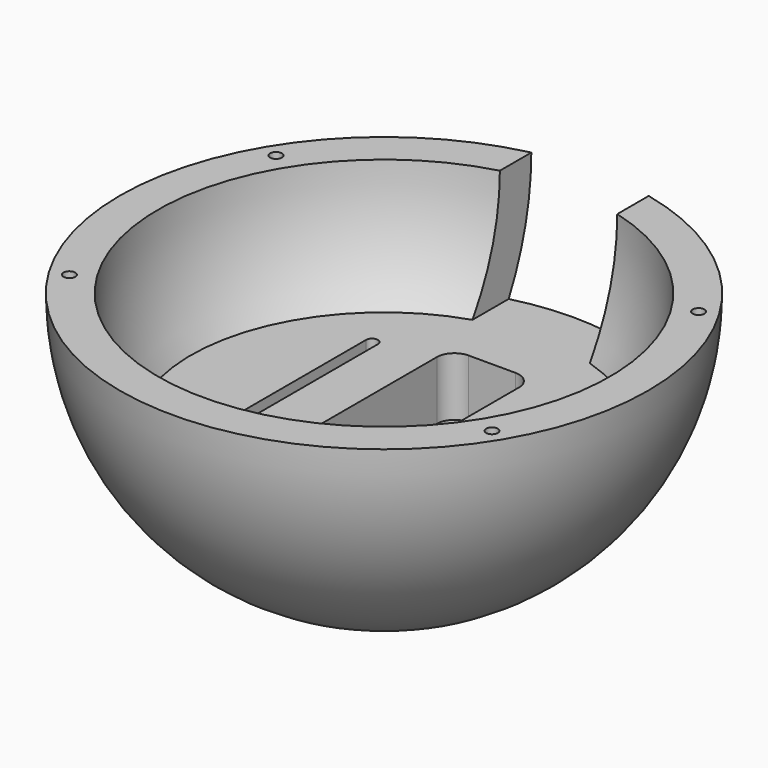
from build123d import *

# Parameters (mm, degrees)
F2_R     = 1.27
F3_DEPTH = 12.7
F5_DEPTH = 12.7
F6_W     = 25.4
F6_H     = 42.3964354956
F7_DEPTH = 25.4


with BuildPart() as f1:
    # F0 (on Front) → F1 (revolve)
    with BuildSketch(Plane.XZ):
        with BuildLine():
            Line((-48.895, 0), (-57.15, 0))
            ThreePointArc((-57.15, 0), (-40.4111525448, -40.4111525448), (0, -57.15))
            Line((0, -57.15), (0, -25.4))
            Line((0, -25.4), (-41.77991174, -25.4))
            ThreePointArc((-41.77991174, -25.4), (-47.0826391015, -13.188863493), (-48.895, 0))
        make_face()
    revolve(axis=Axis((0, 0, -41.275), (0, 0, -1)))

    # F2 (on face) → F3 (cut)
    with BuildSketch(Plane.XY):
        with Locations((45.72, 27.94)):
            Circle(F2_R)
        with Locations((45.72, -27.94)):
            Circle(F2_R)
        with Locations((-45.72, -27.94)):
            Circle(F2_R)
        with Locations((-45.72, 27.94)):
            Circle(F2_R)
    extrude(amount=-F3_DEPTH, mode=Mode.SUBTRACT)

    # F4 (on face) → F5 (cut)
    with BuildSketch(Plane.XY.offset(-25.4)):
        with BuildLine():
            Line((-20.88995587, -1.27), (-20.88995587, 0))
            Line((-20.88995587, 0), (-20.88995587, 1.27))
            ThreePointArc((-20.88995587, 1.27), (-21.7879814821, 0.8980256121), (-22.15995587, 0))
            ThreePointArc((-22.15995587, 0), (-21.7879814821, -0.8980256121), (-20.88995587, -1.27))
        make_face()
        with BuildLine():
            Line((-20.88995587, 1.27), (-20.88995587, 0))
            Line((-20.88995587, 0), (-20.88995587, -1.27))
            ThreePointArc((-20.88995587, -1.27), (-19.9919302579, -0.8980256121), (-19.61995587, 0))
            ThreePointArc((-19.61995587, 0), (-19.9919302579, 0.8980256121), (-20.88995587, 1.27))
        make_face()
        with BuildLine():
            ThreePointArc((-22.15995587, 0), (-21.7879814821, 0.8980256121), (-20.88995587, 1.27))
            ThreePointArc((-20.88995587, 1.27), (-19.9919302579, 0.8980256121), (-19.61995587, 0))
            Line((-19.61995587, 0), (-19.61995587, 22.86))
            ThreePointArc((-19.61995587, 22.86), (-20.88995587, 24.13), (-22.15995587, 22.86))
            Line((-22.15995587, 22.86), (-22.15995587, 0))
        make_face()
        with BuildLine():
            ThreePointArc((-19.61995587, 0), (-19.9919302579, -0.8980256121), (-20.88995587, -1.27))
            ThreePointArc((-20.88995587, -1.27), (-21.7879814821, -0.8980256121), (-22.15995587, 0))
            Line((-22.15995587, 0), (-22.15995587, -22.86))
            ThreePointArc((-22.15995587, -22.86), (-20.88995587, -24.13), (-19.61995587, -22.86))
            Line((-19.61995587, -22.86), (-19.61995587, 0))
        make_face()
        with BuildLine():
            Line((20.88995587, -1.27), (20.88995587, 0))
            Line((20.88995587, 0), (20.88995587, 1.27))
            ThreePointArc((20.88995587, 1.27), (19.9919302579, 0.8980256121), (19.61995587, 0))
            ThreePointArc((19.61995587, 0), (19.9919302579, -0.8980256121), (20.88995587, -1.27))
        make_face()
        with BuildLine():
            Line((20.88995587, 1.27), (20.88995587, 0))
            Line((20.88995587, 0), (20.88995587, -1.27))
            ThreePointArc((20.88995587, -1.27), (21.7879814821, -0.8980256121), (22.15995587, 0))
            ThreePointArc((22.15995587, 0), (21.7879814821, 0.8980256121), (20.88995587, 1.27))
        make_face()
        with BuildLine():
            ThreePointArc((19.61995587, 0), (19.9919302579, 0.8980256121), (20.88995587, 1.27))
            ThreePointArc((20.88995587, 1.27), (21.7879814821, 0.8980256121), (22.15995587, 0))
            Line((22.15995587, 0), (22.15995587, 22.86))
            ThreePointArc((22.15995587, 22.86), (20.88995587, 24.13), (19.61995587, 22.86))
            Line((19.61995587, 22.86), (19.61995587, 0))
        make_face()
        with BuildLine():
            ThreePointArc((22.15995587, 0), (21.7879814821, -0.8980256121), (20.88995587, -1.27))
            ThreePointArc((20.88995587, -1.27), (19.9919302579, -0.8980256121), (19.61995587, 0))
            Line((19.61995587, 0), (19.61995587, -22.86))
            ThreePointArc((19.61995587, -22.86), (20.88995587, -24.13), (22.15995587, -22.86))
            Line((22.15995587, -22.86), (22.15995587, 0))
        make_face()
        with BuildLine():
            Line((5.08, 29.21), (-5.08, 29.21))
            ThreePointArc((-5.08, 29.21), (-7.7740768363, 28.0940768363), (-8.89, 25.4))
            Line((-8.89, 25.4), (-8.89, -25.4))
            ThreePointArc((-8.89, -25.4), (-7.7740768363, -28.0940768363), (-5.08, -29.21))
            Line((-5.08, -29.21), (5.08, -29.21))
            ThreePointArc((5.08, -29.21), (7.7740768363, -28.0940768363), (8.89, -25.4))
            Line((8.89, -25.4), (8.89, 25.4))
            ThreePointArc((8.89, 25.4), (7.7740768363, 28.0940768363), (5.08, 29.21))
        make_face()
    extrude(amount=-F5_DEPTH, mode=Mode.SUBTRACT)

    # F6 (on face) → F7 (cut)
    with BuildSketch(Plane.XY):
        with Locations((0, 51.4418943548)):
            Rectangle(F6_W, F6_H)
    extrude(amount=-F7_DEPTH, mode=Mode.SUBTRACT)


solid = f1.part
